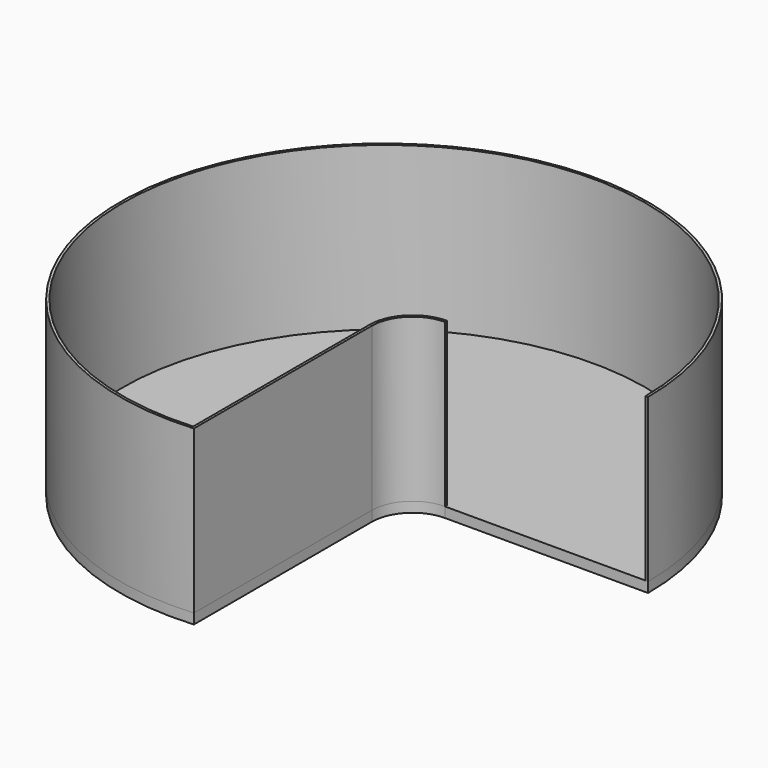
from build123d import *

# Parameters (mm, degrees)
F1_DEPTH = 6.35
F3_DEPTH = 101.6
F5_D     = 19.05


with BuildPart() as f1:
    # F0 (on Top) → F1 (new body)
    with BuildSketch(Plane.XY):
        with BuildLine():
            Line((38.1, 0), (165.1, 0))
            ThreePointArc((165.1, 0), (-121.150279, 112.163363), (12.7, -164.610814))
            Line((12.7, -164.610814), (12.7, -25.4))
            ThreePointArc((12.7, -25.4), (20.139488, -7.439488), (38.1, 0))
        make_face()
    extrude(amount=F1_DEPTH)

    # F5 (through all)
    with Locations(Plane.XY.offset(6.35)):
        with Locations((0, 0)):
            Hole(F5_D / 2)


with BuildPart() as f3:
    # F2 (on face) → F3 (new body)
    with BuildSketch(Plane.XY.offset(6.35)):
        with BuildLine():
            Line((38.1, 0), (38.1, 1.5875))
            ThreePointArc((38.1, 1.5875), (19.016956, -6.316956), (11.1125, -25.4))
            Line((11.1125, -25.4), (11.1125, -163.134454))
            ThreePointArc((11.1125, -163.134454), (-119.485083, 111.622814), (163.5125, 0))
            Line((163.5125, 0), (165.1, 0))
            ThreePointArc((165.1, 0), (-121.150279, 112.163363), (12.7, -164.610814))
            Line((12.7, -164.610814), (12.7, -25.4))
            ThreePointArc((12.7, -25.4), (20.139488, -7.439488), (38.1, 0))
        make_face()
    extrude(amount=F3_DEPTH)


solid = Compound([f1.part, f3.part])
